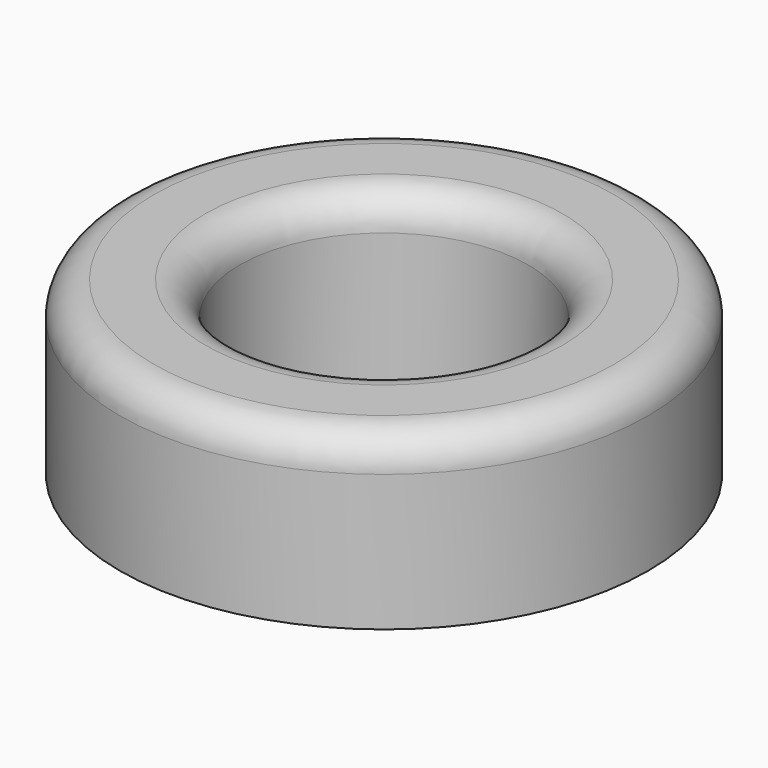
from build123d import *

# Parameters (mm, degrees)
F0_R     = 39.324238
F0_R_2   = 21.491719
F1_DEPTH = 18.288
F2_DEPTH = 25.4
F3_R     = 5.08


with BuildPart() as f1:
    # F0 (on Top) → F1 (new body)
    with BuildSketch(Plane.XY):
        with Locations((3.718213, 0)):
            Circle(F0_R)
        with Locations((3.718213, 0)):
            Circle(F0_R_2, mode=Mode.SUBTRACT)
    extrude(amount=F1_DEPTH)

    # F0 (on Top) → F2 (join)
    with BuildSketch(Plane.XY):
        with Locations((3.718213, 0)):
            Circle(F0_R)
        with Locations((3.718213, 0)):
            Circle(F0_R_2, mode=Mode.SUBTRACT)
    extrude(amount=F2_DEPTH)

    # F3
    f3_edges = [f1.edges().sort_by_distance(p)[0] for p in [
        (-35.606025, 0, 25.4),
        (-17.773505, 0, 25.4),
    ]]
    fillet(f3_edges, radius=F3_R)


solid = f1.part
